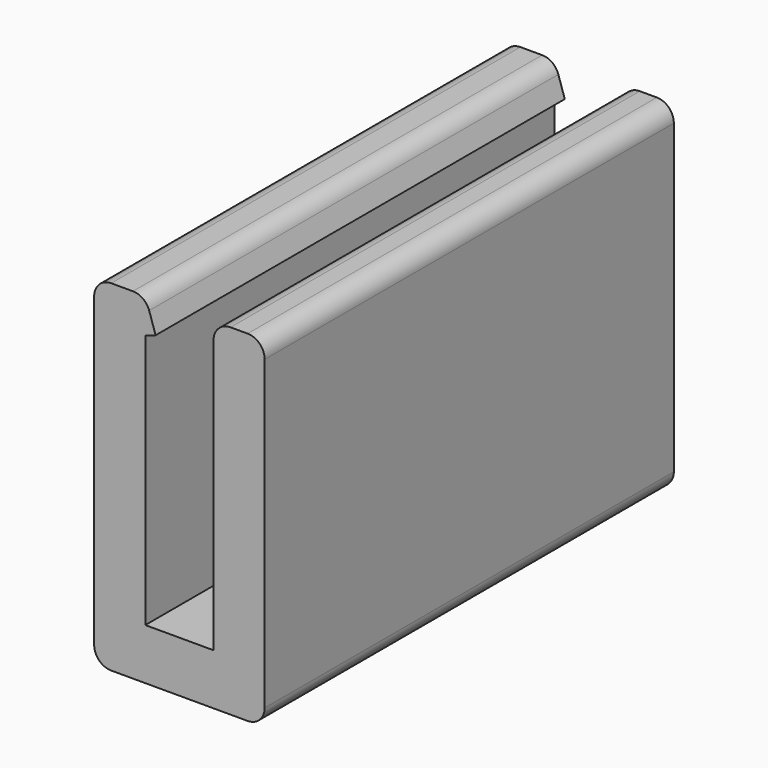
from build123d import *

# Parameters (mm, degrees)
F1_DEPTH = 30
F2_R     = 1


with BuildPart() as f1:
    # F0 (on Front) → F1 (new body)
    with BuildSketch(Plane.XZ):
        Polygon((-44.165032, 39.269094), (-44.165032, 19.269094), (-34.165032, 19.269094), (-34.165032, 39.269094), (-37.165032, 39.269094), (-37.165032, 22.269094), (-41.165032, 22.269094), (-41.165032, 37.231111), (-40.561296, 37.429221), (-41.165032, 39.269094), align=None)
    extrude(amount=F1_DEPTH)

    # F2
    f2_edges = [f1.edges().sort_by_distance(p)[0] for p in [
        (-34.165032, -15, 19.269094),
        (-34.165032, -15, 39.269094),
        (-37.165032, -15, 39.269094),
        (-44.165032, -15, 19.269094),
        (-44.165032, -15, 39.269094),
        (-41.165032, -15, 39.269094),
    ]]
    fillet(f2_edges, radius=F2_R)


solid = f1.part
